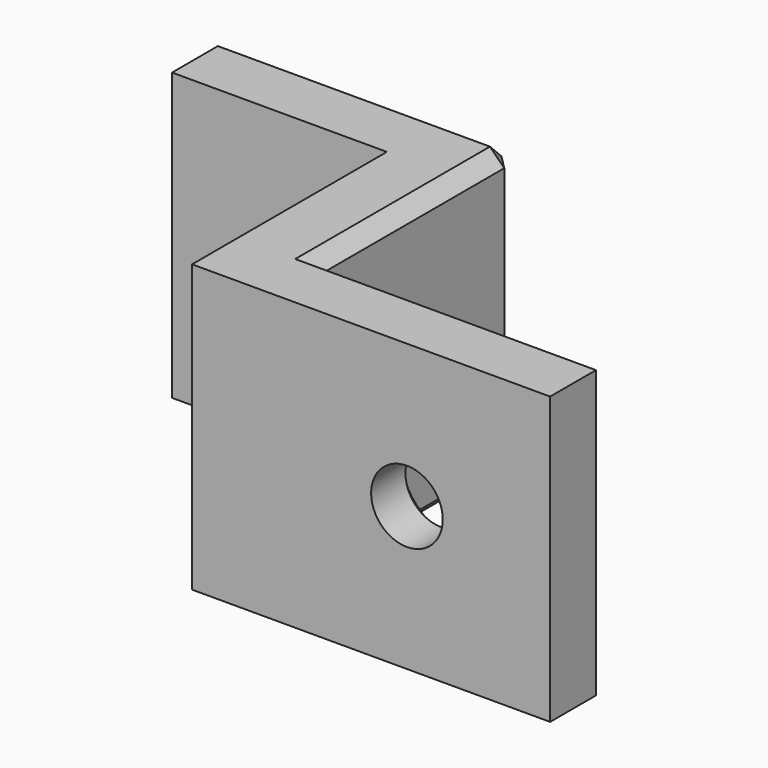
from build123d import *

# Parameters (mm, degrees)
PAD_DEPTH       = 20
SKETCH001_R     = 2.5
POCKET_DEPTH    = 5.001
CHAMFER_SIZE    = 2
CHAMFER001_SIZE = 1


with BuildPart() as part:
    # Sketch → Pad (new body)
    with BuildSketch(Plane.XY):
        Polygon((0, 0), (-25, 0), (-25, 17), (-40, 17), (-40, 22), (-20, 22), (-20, 5), (0, 5), align=None)
    extrude(amount=PAD_DEPTH)

    # Sketch001 (on Face7 of Pad) → Pocket (cut, through all)
    with BuildSketch(Plane(origin=(0, 5, 0), x_dir=(-1, 0, 0), z_dir=(0, 1, 0))):
        with Locations((10, 10)):
            Circle(SKETCH001_R)
    extrude(amount=-POCKET_DEPTH, mode=Mode.SUBTRACT)

    # Chamfer
    chamfer_edges = [part.edges().sort_by_distance(p)[0] for p in [
        (-7.5, 5, 10),
    ]]
    chamfer(chamfer_edges, length=CHAMFER_SIZE)

    # Chamfer001
    chamfer001_edges = [part.edges().sort_by_distance(p)[0] for p in [
        (-10, 5, 0),
        (0, 5, 10),
        (-10, 5, 20),
        (-30, 22, 20),
        (-40, 22, 10),
        (-30, 22, 0),
        (-20, 13.5, 0),
        (-20, 13.5, 20),
        (-20, 22, 10),
    ]]
    chamfer(chamfer001_edges, length=CHAMFER001_SIZE)


solid = part.part
